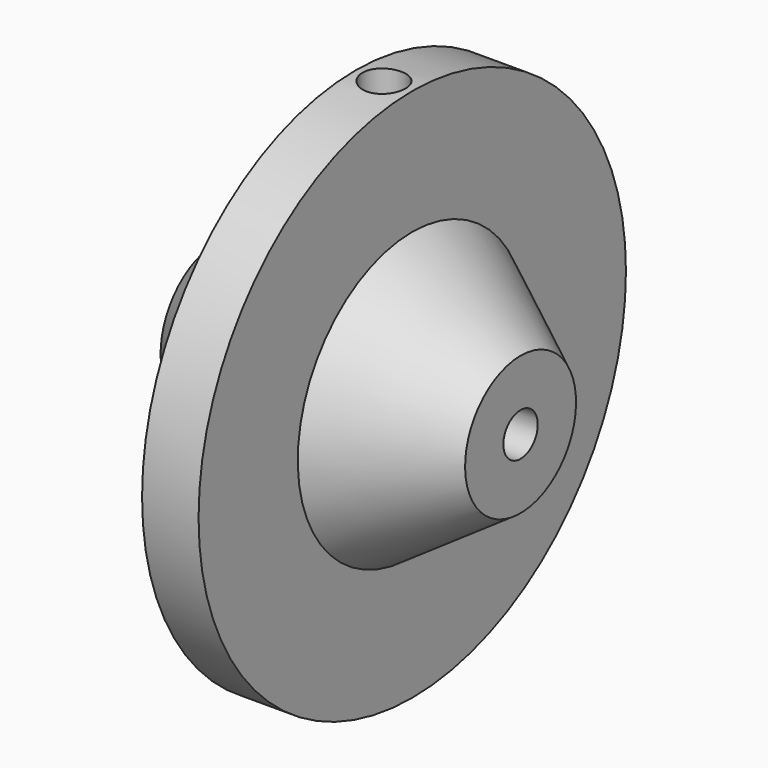
from build123d import *

# Parameters (mm, degrees)
F4_D     = 6.35
F4_DEPTH = 39.4386441836
F5_D     = 6.35


with BuildPart() as f1:
    # F0 (on Front) → F1 (revolve)
    with BuildSketch(Plane.XZ):
        Polygon((10.9917372465, 10.2357640862), (10.9917372465, 0), (55.9533685446, 0), (55.9533685446, 10.2357640862), (39.9618595839, 21.1285278201), (39.9618595839, 39.4376441836), (31.6184610128, 39.4376441836), (31.6184610128, 20.2014818788), (21.8845009804, 20.2014818788), align=None)
    revolve(axis=Axis((33.4725528955, 0, 0), (-1, 0, 0)))

    # F4 (through all, one way)
    with BuildSketch(Plane(origin=(0, 0, 0), x_dir=(1, 0, 0), z_dir=(0, 0, -1))):
        with Locations((35.7924923301, 0)):
            Circle(F4_D / 2)
    extrude(amount=-F4_DEPTH, mode=Mode.SUBTRACT)

    # F5 (through all)
    with Locations(Plane(origin=(0, 0, 0), x_dir=(0, 1, 0), z_dir=(-1, 0, 0))):
        with Locations((0, 0)):
            Hole(F5_D / 2)


solid = f1.part
